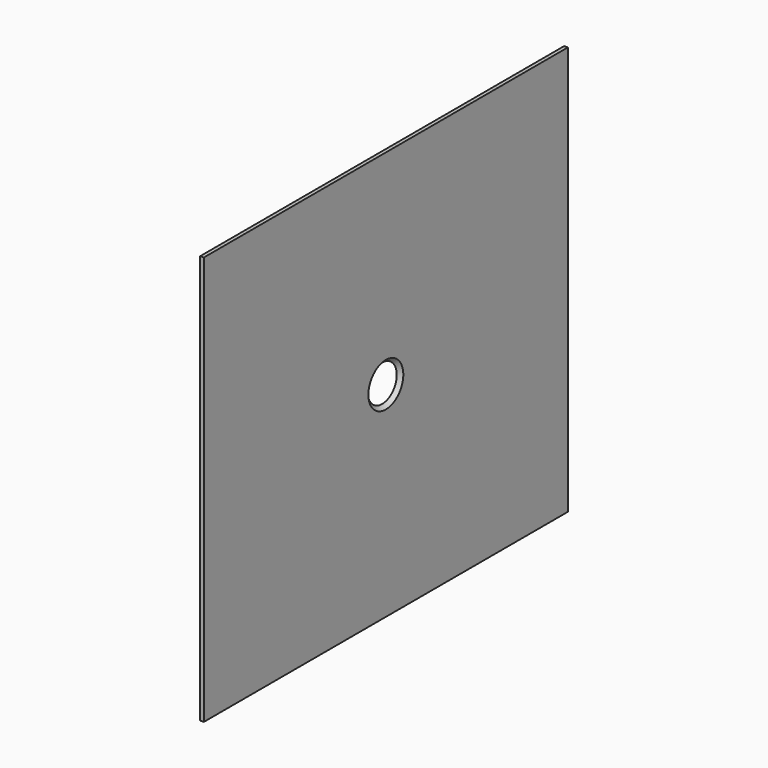
from build123d import *

# Parameters (mm, degrees)
F0_W           = 124.908936
F0_H           = 112.266578
F1_DEPTH       = 1
F3_D           = 6
F3_CSINK_D     = 12
F3_CSINK_ANGLE = 90


with BuildPart() as f1:
    # F0 (on Right) → F1 (new body)
    with BuildSketch(Plane.YZ):
        with Locations((64.620474, 56.133289)):
            Rectangle(F0_W, F0_H)
    extrude(amount=F1_DEPTH)

    # F3 (through all)
    with Locations(Plane.YZ.offset(1)):
        with Locations((64.620474, 56.133289)):
            CounterSinkHole(F3_D / 2, F3_CSINK_D / 2, counter_sink_angle=F3_CSINK_ANGLE)


solid = f1.part
